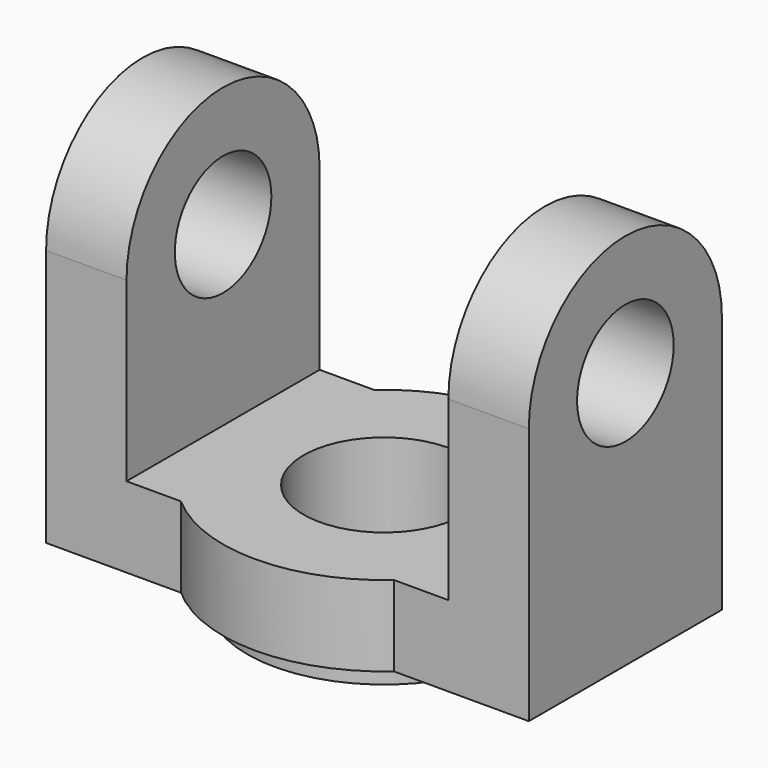
from build123d import *

# Parameters (mm, degrees)
F0_R     = 17
F0_R_2   = 10
F1_DEPTH = 10
F2_DEPTH = 3
F3_R     = 7.5
F4_DEPTH = 30
F5_DEPTH = 20


with BuildPart() as f1:
    # F0 (on Top) → F1 (new body)
    with BuildSketch(Plane.XY):
        with BuildLine():
            Line((-13.2287565553, 15), (-30, 15))
            Line((-30, 15), (-30, -15))
            Line((-30, -15), (-13.2287565553, -15))
            ThreePointArc((-13.2287565553, -15), (0, -20), (13.2287565553, -15))
            Line((13.2287565553, -15), (30, -15))
            Line((30, -15), (30, 15))
            Line((30, 15), (13.2287565553, 15))
            ThreePointArc((13.2287565553, 15), (0, 20), (-13.2287565553, 15))
        make_face()
        Circle(F0_R, mode=Mode.SUBTRACT)
        Circle(F0_R)
        Circle(F0_R_2, mode=Mode.SUBTRACT)
    extrude(amount=F1_DEPTH)

    # F0 (on Top) → F2 (join)
    with BuildSketch(Plane.XY):
        Circle(F0_R)
        Circle(F0_R_2, mode=Mode.SUBTRACT)
    extrude(amount=-F2_DEPTH)

    # F3 (on Right) → F4 (join, symmetric)
    with BuildSketch(Plane.YZ):
        with BuildLine():
            Line((-15, 32), (-15, 10))
            Line((-15, 10), (15, 10))
            Line((15, 10), (15, 32))
            ThreePointArc((15, 32), (0, 47), (-15, 32))
        make_face()
        with Locations((0, 32)):
            Circle(F3_R, mode=Mode.SUBTRACT)
    extrude(amount=F4_DEPTH, both=True)

    # F3 (on Right) → F5 (cut, symmetric)
    with BuildSketch(Plane.YZ):
        with BuildLine():
            Line((-15, 32), (-15, 10))
            Line((-15, 10), (15, 10))
            Line((15, 10), (15, 32))
            ThreePointArc((15, 32), (0, 47), (-15, 32))
        make_face()
        with Locations((0, 32)):
            Circle(F3_R, mode=Mode.SUBTRACT)
    extrude(amount=F5_DEPTH, both=True, mode=Mode.SUBTRACT)


solid = f1.part
